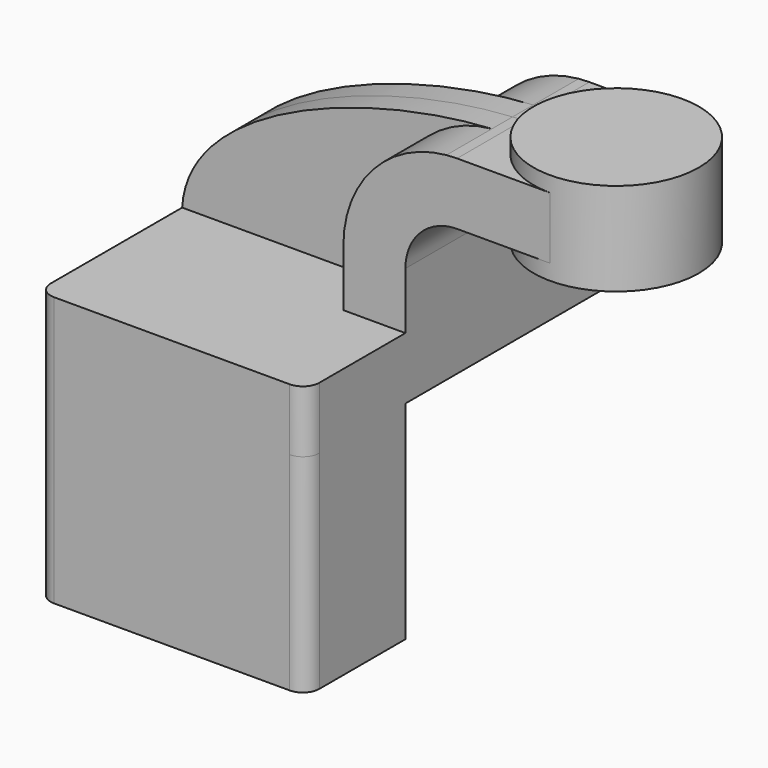
from build123d import *

# Parameters (mm, degrees)
F1_DEPTH = 63.5
F0_W     = 25.4
F0_H     = 19.05
F2_DEPTH = 25.4
F3_DEPTH = 7.9375
F5_R     = 5.08
F6_DEPTH = 82.804


with BuildPart() as f1:
    # F0 (on Front) → F1 (new body, symmetric)
    with BuildSketch(Plane.XZ):
        Polygon((22.225, 9.525), (-41.275, 9.525), (-41.275, -9.525), (41.275, -9.525), (41.275, 9.525), align=None)
    extrude(amount=F1_DEPTH, both=True)

    # F0 (on Front) → F2 (join, symmetric)
    with BuildSketch(Plane.XZ):
        with BuildLine():
            Line((22.225, 27.0002), (22.225, 9.525))
            Line((22.225, 9.525), (41.275, 9.525))
            Line((41.275, 9.525), (41.275, 27.0002))
            ThreePointArc((41.275, 27.0002), (45.9246798487, 38.2255201513), (57.15, 42.8752))
            Line((57.15, 42.8752), (60.325, 42.8752))
            Line((60.325, 42.8752), (60.325, 61.9252))
            Line((60.325, 61.9252), (57.15, 61.9252))
            add(Edge.make_bspline(
                [(53.8854342407, 61.7722898912), (54.9842067368, 61.8365871986), (56.0728453275, 61.8876096574), (57.15, 61.9252)],
                knots=[108.5245810491, 108.5245810491, 108.5245810491, 108.5245810491, 111.5045361635, 111.5045361635, 111.5045361635, 111.5045361635], degree=3))
            ThreePointArc((53.8854342407, 61.7722898912), (31.3258777096, 50.5133948686), (22.225, 27.0002))
        make_face()
        with Locations((73.025, 52.4002)):
            Rectangle(F0_W, F0_H)
    extrude(amount=F2_DEPTH, both=True)

    # F0 (on Front) → F3 (join, symmetric)
    with BuildSketch(Plane.XZ):
        with BuildLine():
            add(Edge.make_bspline(
                [(-41.275, 9.525), (-39.5856284224, 39.4828766469), (13.870125209, 59.4306981306), (53.8854342407, 61.7722898912)],
                knots=[0, 0, 0, 0, 108.5245810491, 108.5245810491, 108.5245810491, 108.5245810491], degree=3))
            Line((-41.275, 9.525), (22.225, 9.525))
            Line((22.225, 9.525), (22.225, 27.0002))
            ThreePointArc((22.225, 27.0002), (31.3258777096, 50.5133948686), (53.8854342407, 61.7722898912))
        make_face()
    extrude(amount=F3_DEPTH, both=True)

    # F0 (on Front) → F4 (revolve)
    with BuildSketch(Plane.XZ):
        Polygon((85.725, 66.675), (85.725, 61.9252), (85.725, 42.8752), (85.725, 38.1), (111.125, 38.1), (111.125, 66.675), align=None)
    revolve(axis=Axis((85.725, 0, 52.3875), (0, 0, 1)))

    # F5
    f5_edges = [f1.edges().sort_by_distance(p)[0] for p in [
        (41.275, -63.5, 0),
        (-41.275, -63.5, 0),
        (41.275, 63.5, 0),
        (-41.275, 63.5, 0),
    ]]
    fillet(f5_edges, radius=F5_R)

    # F6 (add): a face of the model
    f6_faces = [f1.faces().sort_by_distance(p)[0] for p in [
        (-2.489301299, -37.1427700655, 9.525),
    ]]
    extrude(f6_faces, amount=-F6_DEPTH)


solid = f1.part
